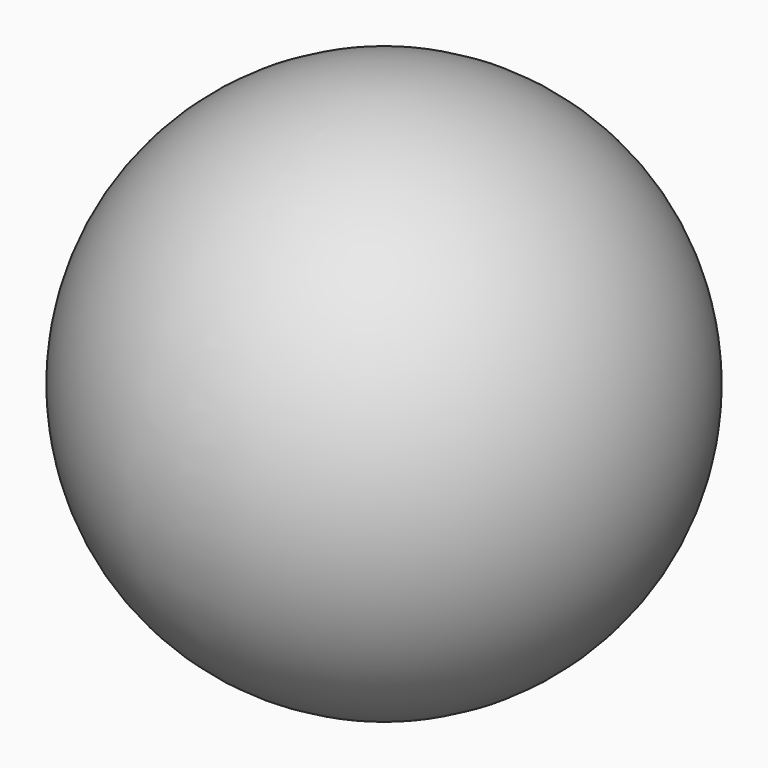
from build123d import *


with BuildPart() as f1:
    # F0 (on Right) → F1 (revolve)
    with BuildSketch(Plane.YZ):
        with BuildLine():
            Line((0, -34.925), (0, 34.925))
            ThreePointArc((0, 34.925), (-34.925, 0), (0, -34.925))
        make_face()
    revolve(axis=Axis((0, 0, 6.740966), (0, 0, 1)))


solid = f1.part
